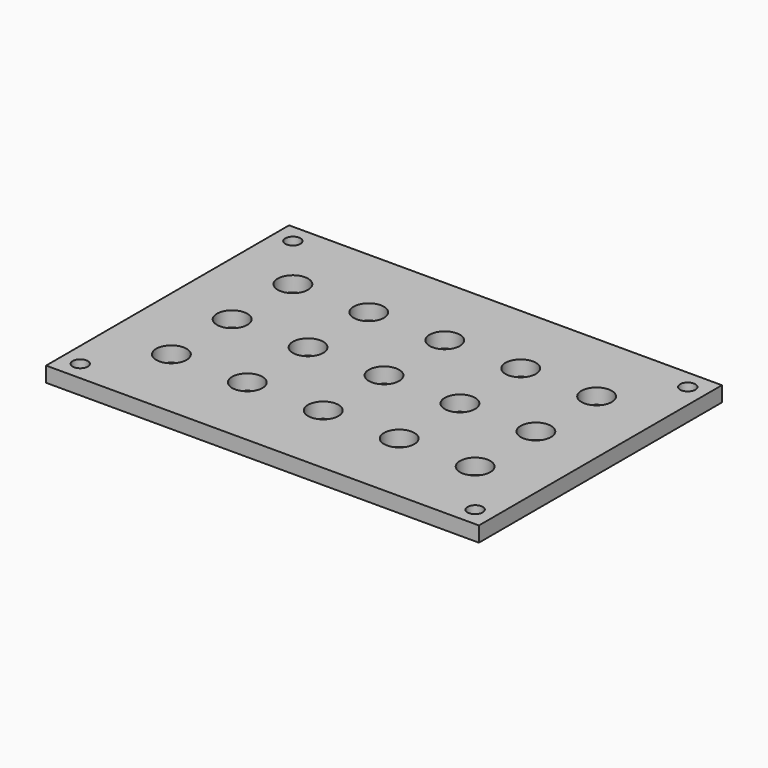
from build123d import *

# Parameters (mm, degrees)
CYLINDER002_R     = 2
CYLINDER002_DEPTH = 10
ARRAY002_X_COUNT  = 5
ARRAY002_X_PITCH  = 10
ARRAY002_Y_COUNT  = 3
ARRAY002_Y_PITCH  = 10
CYLINDER001_R     = 1
CYLINDER001_DEPTH = 10
ARRAY001_X_COUNT  = 2
ARRAY001_X_PITCH  = 52
ARRAY001_Y_COUNT  = 2
ARRAY001_Y_PITCH  = 35
BOX_W             = 57
BOX_H             = 40
BOX_DEPTH         = 2


with BuildPart() as array002:
    # Cylinder002 → Cylinder002 (new body)
    with BuildSketch(Plane(origin=(-30, -10, 17), x_dir=(1, 0, 0), z_dir=(0, 0, 1))):
        Circle(CYLINDER002_R)
    extrude(amount=CYLINDER002_DEPTH)

    # Array002 X: Array002 ×5


with BuildPart() as array002_1:
    add(array002.part)
    with Locations(*[(i * ARRAY002_X_PITCH, 0, 0) for i in range(1, ARRAY002_X_COUNT)]):
        add(array002.part)

    # Array002 Y: Array002 ×3


with BuildPart() as array002_2:
    add(array002_1.part)
    with Locations(*[(0, i * ARRAY002_Y_PITCH, 0) for i in range(1, ARRAY002_Y_COUNT)]):
        add(array002_1.part)


with BuildPart() as array001:
    # Cylinder001 → Cylinder001 (new body)
    with BuildSketch(Plane(origin=(-36, -17.5, 18), x_dir=(1, 0, 0), z_dir=(0, 0, 1))):
        Circle(CYLINDER001_R)
    extrude(amount=CYLINDER001_DEPTH)

    # Array001 X: Array001 ×2


with BuildPart() as array001_1:
    add(array001.part)
    with Locations(*[(i * ARRAY001_X_PITCH, 0, 0) for i in range(1, ARRAY001_X_COUNT)]):
        add(array001.part)

    # Array001 Y: Array001 ×2


with BuildPart() as array001_2:
    add(array001_1.part)
    with Locations(*[(0, i * ARRAY001_Y_PITCH, 0) for i in range(1, ARRAY001_Y_COUNT)]):
        add(array001_1.part)


with BuildPart() as top_cut:
    # Box → Box (new body)
    with BuildSketch(Plane(origin=(-38.5, -20, 20.3), x_dir=(1, 0, 0), z_dir=(0, 0, 1))):
        with Locations((28.5, 20)):
            Rectangle(BOX_W, BOX_H)
    extrude(amount=BOX_DEPTH)

    # Cut003: cut Array001
    add(array001_2.part, mode=Mode.SUBTRACT)

    # Cut004: cut Array002
    add(array002_2.part, mode=Mode.SUBTRACT)


solid = top_cut.part
